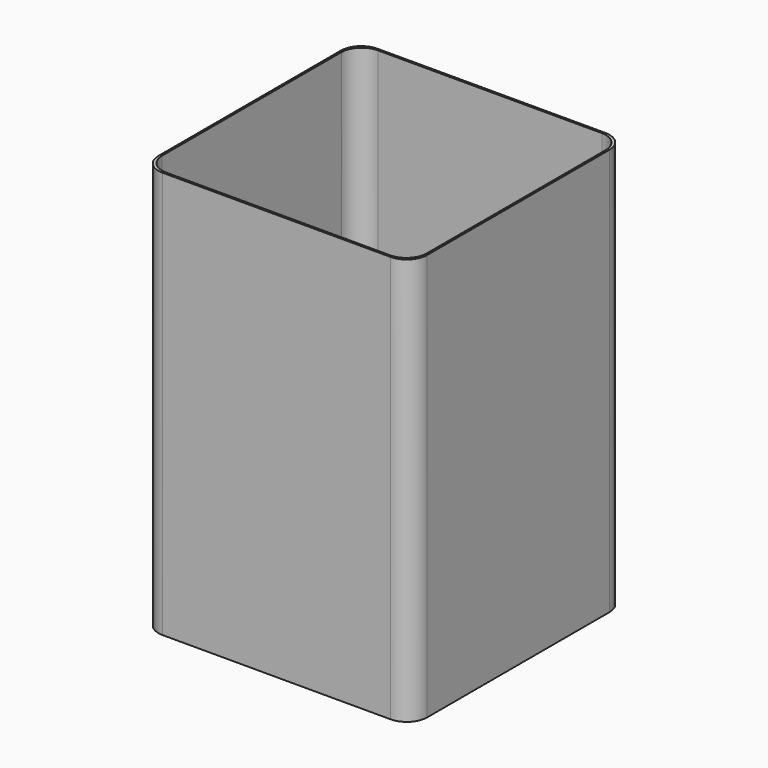
from build123d import *

# Parameters (mm, degrees)
F1_DEPTH = 200
F3_DEPTH = 25
F4_R     = 0.5
F5_DEPTH = 2


with BuildPart() as f1:
    # F0 (on Top) → F1 (new body)
    with BuildSketch(Plane.XY):
        with BuildLine():
            Line((-56, -66), (56, -66))
            ThreePointArc((56, -66), (63.071068, -63.071068), (66, -56))
            Line((66, -56), (66, 56))
            ThreePointArc((66, 56), (63.071068, 63.071068), (56, 66))
            Line((56, 66), (-56, 66))
            ThreePointArc((-56, 66), (-63.071068, 63.071068), (-66, 56))
            Line((-66, 56), (-66, -56))
            ThreePointArc((-66, -56), (-63.071068, -63.071068), (-56, -66))
        make_face()
        with BuildLine():
            Line((-55, 65), (55, 65))
            ThreePointArc((55, 65), (62.071068, 62.071068), (65, 55))
            Line((65, 55), (65, -55))
            ThreePointArc((65, -55), (62.071068, -62.071068), (55, -65))
            Line((55, -65), (-55, -65))
            ThreePointArc((-55, -65), (-62.071068, -62.071068), (-65, -55))
            Line((-65, -55), (-65, 55))
            ThreePointArc((-65, 55), (-62.071068, 62.071068), (-55, 65))
        make_face(mode=Mode.SUBTRACT)
    extrude(amount=F1_DEPTH)

    # F2 (on face) → F3 (cut)
    with BuildSketch(Plane(origin=(0, 66, 0), x_dir=(-1, 0, 0), z_dir=(0, 1, 0))):
        with BuildLine():
            Line((-10, 30), (10, 30))
            ThreePointArc((10, 30), (13.535534, 31.464466), (15, 35))
            Line((15, 35), (15, 125))
            ThreePointArc((15, 125), (13.535534, 128.535534), (10, 130))
            Line((10, 130), (-10, 130))
            ThreePointArc((-10, 130), (-13.535534, 128.535534), (-15, 125))
            Line((-15, 125), (-15, 35))
            ThreePointArc((-15, 35), (-13.535534, 31.464466), (-10, 30))
        make_face()
    extrude(amount=-F3_DEPTH, mode=Mode.SUBTRACT)

    # F4 (on face) → F5 (cut)
    with BuildSketch(Plane(origin=(0, 66, 0), x_dir=(-1, 0, 0), z_dir=(0, 1, 0))):
        with Locations((0, 2)):
            Circle(F4_R)
        with Locations((-4, 4)):
            Circle(F4_R)
        with Locations((-16, 6)):
            Circle(F4_R)
        with Locations((-8, 2)):
            Circle(F4_R)
        with Locations((-32, 6)):
            Circle(F4_R)
        with Locations((-12, 4)):
            Circle(F4_R)
        with Locations((-24, 2)):
            Circle(F4_R)
        with Locations((4, 4)):
            Circle(F4_R)
        with Locations((12, 4)):
            Circle(F4_R)
        with Locations((24, 2)):
            Circle(F4_R)
        with Locations((20, 4)):
            Circle(F4_R)
        with Locations((16, 6)):
            Circle(F4_R)
        with Locations((32, 2)):
            Circle(F4_R)
        with Locations((24, 6)):
            Circle(F4_R)
        with Locations((-16, 2)):
            Circle(F4_R)
        with Locations((-24, 6)):
            Circle(F4_R)
        with Locations((-20, 4)):
            Circle(F4_R)
        with Locations((8, 2)):
            Circle(F4_R)
        with Locations((-28, 4)):
            Circle(F4_R)
        with Locations((16, 2)):
            Circle(F4_R)
        with Locations((8, 6)):
            Circle(F4_R)
        with Locations((28, 4)):
            Circle(F4_R)
        with Locations((-8, 6)):
            Circle(F4_R)
        with Locations((0, 6)):
            Circle(F4_R)
        with Locations((32, 6)):
            Circle(F4_R)
        with Locations((-32, 2)):
            Circle(F4_R)
        with Locations((36, 4)):
            Circle(F4_R)
        with Locations((-36, 4)):
            Circle(F4_R)
    extrude(amount=-F5_DEPTH, mode=Mode.SUBTRACT)


solid = f1.part
